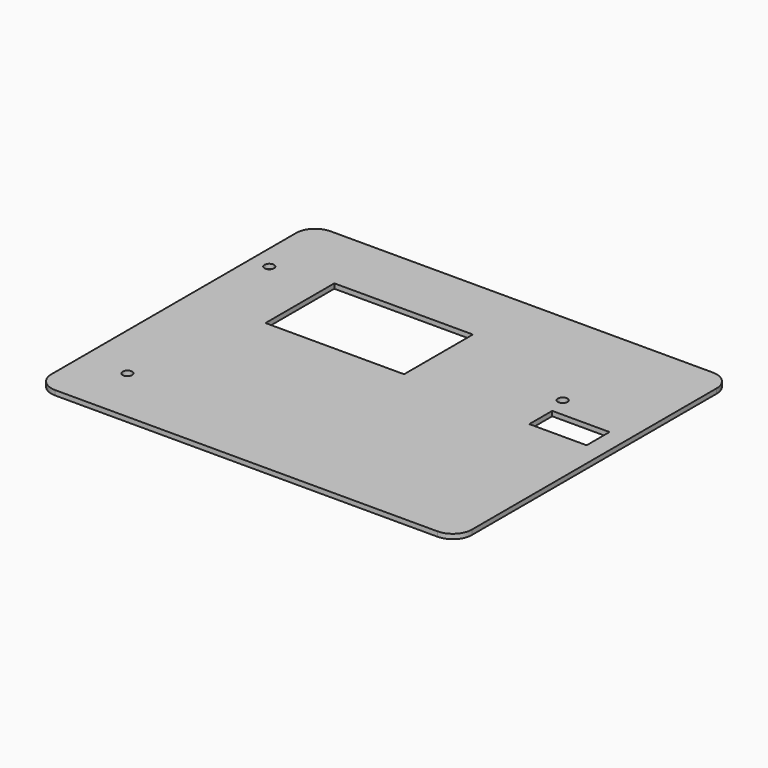
from build123d import *

# Parameters (mm, degrees)
F0_R     = 3.175
F0_W     = 92.075
F0_H     = 57.15
F0_W_2   = 38.1
F0_H_2   = 19.05
F1_DEPTH = 3.175


with BuildPart() as f1:
    # F0 (on Top) → F1 (new body)
    with BuildSketch(Plane.XY):
        with BuildLine():
            Line((130.373917, 129.706656), (-123.626083, 129.706656))
            ThreePointArc((-123.626083, 129.706656), (-132.606339, 125.986912), (-136.326083, 117.006656))
            Line((-136.326083, 117.006656), (-136.326083, -86.193344))
            ThreePointArc((-136.326083, -86.193344), (-132.606339, -95.1736), (-123.626083, -98.893344))
            Line((-123.626083, -98.893344), (130.373917, -98.893344))
            ThreePointArc((130.373917, -98.893344), (139.354173, -95.1736), (143.073917, -86.193344))
            Line((143.073917, -86.193344), (143.073917, 117.006656))
            ThreePointArc((143.073917, 117.006656), (139.354173, 125.986912), (130.373917, 129.706656))
        make_face()
        with Locations((-106.163583, -60.793344)):
            Circle(F0_R, mode=Mode.SUBTRACT)
        with Locations((-39.488583, 56.681656)):
            Rectangle(F0_W, F0_H, mode=Mode.SUBTRACT)
        with Locations((-123.626083, 78.906656)):
            Circle(F0_R, mode=Mode.SUBTRACT)
        with Locations((111.323917, 34.456656)):
            Rectangle(F0_W_2, F0_H_2, mode=Mode.SUBTRACT)
        with Locations((89.098917, 56.681656)):
            Circle(F0_R, mode=Mode.SUBTRACT)
    extrude(amount=F1_DEPTH)


solid = f1.part
